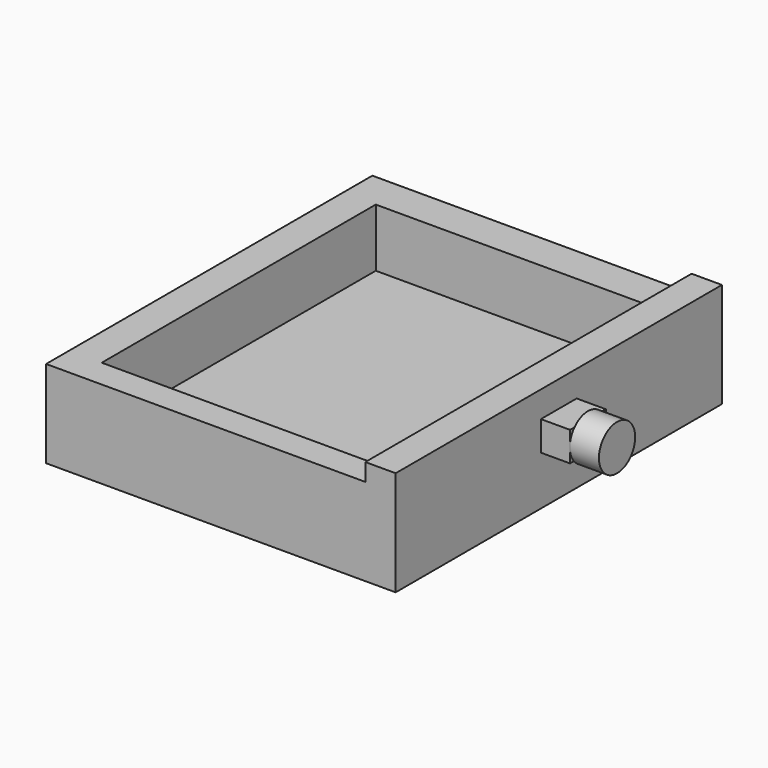
from build123d import *

# Parameters (mm, degrees)
F0_W      = 76.2
F0_H      = 88.9
F1_DEPTH  = 6.35
F2_W      = 6.6139022768
F2_H      = 88.9
F3_DEPTH  = 16.51
F4_W      = 69.5860977232
F4_H      = 6.2766113102
F5_DEPTH  = 12.7
F6_W      = 7.1120927989
F6_H      = 82.6233886898
F7_DEPTH  = 12.7
F8_W      = 62.4740049243
F8_H      = 7.9619140148
F9_DEPTH  = 12.7
F10_W     = 9.7436904907
F10_H     = 6.4433701336
F11_DEPTH = 6.35
F12_R     = 4.9368995646
F13_DEPTH = 6.35


with BuildPart() as f1:
    # F0 (on Top) → F1 (new body)
    with BuildSketch(Plane.XY):
        Rectangle(F0_W, F0_H)
    extrude(amount=F1_DEPTH)

    # F2 (on face) → F3 (join)
    with BuildSketch(Plane.XY.offset(6.35)):
        with Locations((34.7930488616, 0)):
            Rectangle(F2_W, F2_H)
    extrude(amount=F3_DEPTH)

    # F4 (on face) → F5 (join)
    with BuildSketch(Plane.XY.offset(6.35)):
        with Locations((-3.3069511384, -41.3116943449)):
            Rectangle(F4_W, F4_H)
    extrude(amount=F5_DEPTH)

    # F6 (on face) → F7 (join)
    with BuildSketch(Plane.XY.offset(6.35)):
        with Locations((-34.5439536005, 3.1383056551)):
            Rectangle(F6_W, F6_H)
    extrude(amount=F7_DEPTH)

    # F8 (on face) → F9 (join)
    with BuildSketch(Plane.XY.offset(6.35)):
        with Locations((0.2490952611, 40.4690429926)):
            Rectangle(F8_W, F8_H)
    extrude(amount=F9_DEPTH)

    # F10 (on face) → F11 (join)
    with BuildSketch(Plane.YZ.offset(38.1)):
        with Locations((0, 13.9397662133)):
            Rectangle(F10_W, F10_H)
    extrude(amount=F11_DEPTH)

    # F12 (on face) → F13 (join)
    with BuildSketch(Plane.YZ.offset(44.45)):
        with Locations((0, 13.8416578993)):
            Circle(F12_R)
    extrude(amount=F13_DEPTH)


solid = f1.part
